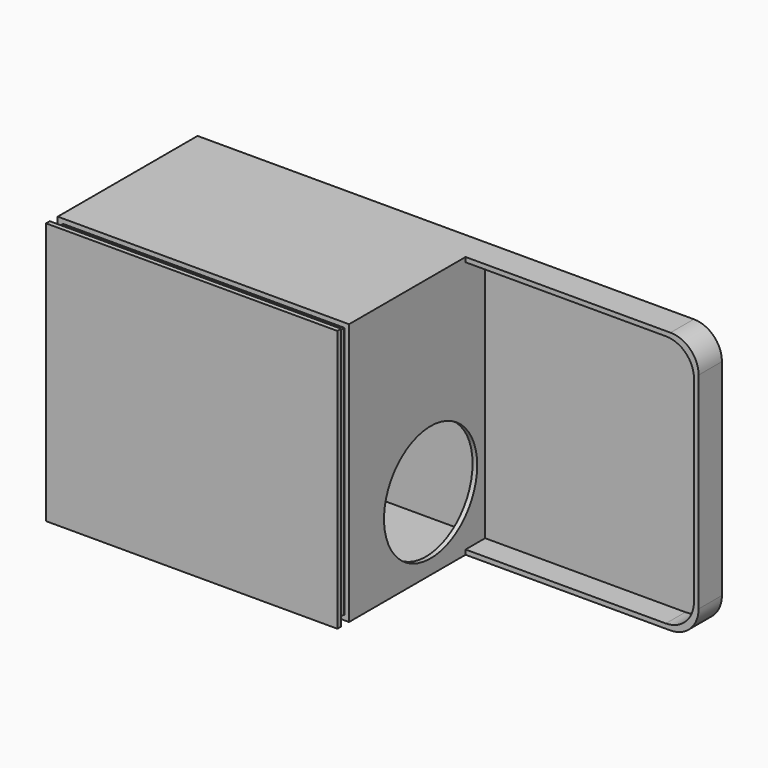
from build123d import *

# Parameters (mm, degrees)
F0_W      = 122.936
F0_H      = 110.236
F1_DEPTH  = 76.2
F2_DEPTH  = 2.032
F5_W      = 127
F5_H      = 114.3
F5_W_2    = 122.682
F5_H_2    = 109.982
F5_W_3    = 115.062
F5_H_3    = 102.362
F6_DEPTH  = 2.032
F7_DEPTH  = 6.35
F0_W_2    = 99.568
F8_DEPTH  = 2.032
F9_DEPTH  = 12.7
F3_R      = 25.4
F10_DEPTH = 6.35
F11_R     = 12.2642048969
F12_R     = 5.207
F12_R_2   = 3.175
F13_DEPTH = 12.7


with BuildPart() as f1:
    # F0 (on Front) → F1 (new body)
    with BuildSketch(Plane.XZ):
        Polygon((0, 114.3), (-127, 114.3), (-127, 0), (0, 0), (0, 2.032), (0, 112.268), align=None)
        with Locations((-63.5, 57.15)):
            Rectangle(F0_W, F0_H, mode=Mode.SUBTRACT)
    extrude(amount=F1_DEPTH)

    # F0 (on Front) → F2 (join)
    with BuildSketch(Plane.XZ):
        with Locations((-63.5, 57.15)):
            Rectangle(F0_W, F0_H)
    extrude(amount=F2_DEPTH)

    # F0 (on Front) → F8 (join)
    with BuildSketch(Plane.XZ):
        with Locations((49.784, 57.15)):
            Rectangle(F0_W_2, F0_H)
        Polygon((101.6, 114.3), (0, 114.3), (0, 112.268), (99.568, 112.268), (99.568, 2.032), (0, 2.032), (0, 0), (101.6, 0), align=None)
    extrude(amount=F8_DEPTH)

    # F0 (on Front) → F9 (join)
    with BuildSketch(Plane.XZ):
        Polygon((101.6, 114.3), (0, 114.3), (0, 112.268), (99.568, 112.268), (99.568, 2.032), (0, 2.032), (0, 0), (101.6, 0), align=None)
    extrude(amount=F9_DEPTH)

    # F3 (on face) → F10 (cut)
    with BuildSketch(Plane.YZ):
        with Locations((-31.75, 31.75)):
            Circle(F3_R)
    extrude(amount=-F10_DEPTH, mode=Mode.SUBTRACT)

    # F11
    f11_edges = [f1.edges().sort_by_distance(p)[0] for p in [
        (101.6, -6.35, 0),
        (99.568, -7.366, 2.032),
        (99.568, -7.366, 112.268),
        (101.6, -6.35, 114.3),
    ]]
    fillet(f11_edges, radius=F11_R)

    # F12 (on face) → F13 (join)
    with BuildSketch(Plane(origin=(0, 0, 0), x_dir=(-1, 0, 0), z_dir=(0, 1, 0))):
        with Locations((111.125, 15.875)):
            Circle(F12_R)
        with Locations((111.125, 15.875)):
            Circle(F12_R_2, mode=Mode.SUBTRACT)
        with Locations((111.125, 98.425)):
            Circle(F12_R)
        with Locations((111.125, 98.425)):
            Circle(F12_R_2, mode=Mode.SUBTRACT)
        with Locations((-47.625, 98.425)):
            Circle(F12_R)
        with Locations((-47.625, 98.425)):
            Circle(F12_R_2, mode=Mode.SUBTRACT)
        with Locations((-47.625, 15.875)):
            Circle(F12_R)
        with Locations((-47.625, 15.875)):
            Circle(F12_R_2, mode=Mode.SUBTRACT)
    extrude(amount=F13_DEPTH)


with BuildPart() as f6:
    # F5 (on offset) → F6 (new body)
    with BuildSketch(Plane.XZ.offset(82.55)):
        with Locations((-63.5, 57.15)):
            Rectangle(F5_W, F5_H)
        with Locations((-63.5, 57.15)):
            Rectangle(F5_W_2, F5_H_2, mode=Mode.SUBTRACT)
        with Locations((-63.5, 57.15)):
            Rectangle(F5_W_2, F5_H_2)
        with Locations((-63.5, 57.15)):
            Rectangle(F5_W_3, F5_H_3, mode=Mode.SUBTRACT)
        with Locations((-63.5, 57.15)):
            Rectangle(F5_W_3, F5_H_3)
    extrude(amount=-F6_DEPTH)

    # F5 (on offset) → F7 (join)
    with BuildSketch(Plane.XZ.offset(82.55)):
        with Locations((-63.5, 57.15)):
            Rectangle(F5_W_2, F5_H_2)
        with Locations((-63.5, 57.15)):
            Rectangle(F5_W_3, F5_H_3, mode=Mode.SUBTRACT)
    extrude(amount=-F7_DEPTH)


solid = Compound([f1.part, f6.part])
